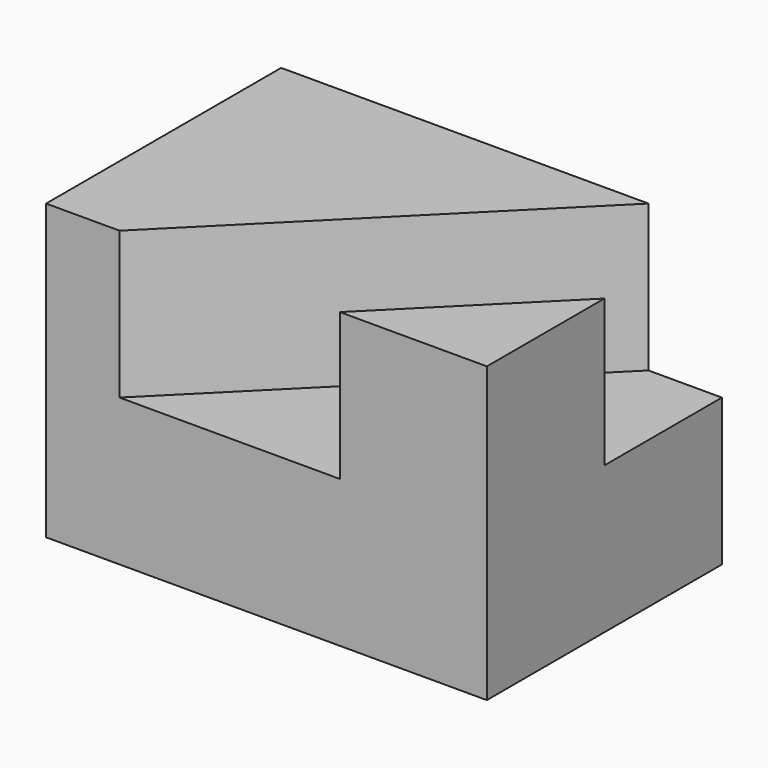
from build123d import *

# Parameters (mm, degrees)
F0_W     = 38.1
F0_H     = 12.7
F1_DEPTH = 25.4
F3_DEPTH = 12.7


with BuildPart() as f1:
    # F0 (on Front) → F1 (new body)
    with BuildSketch(Plane.XZ):
        with Locations((19.05, 6.35)):
            Rectangle(F0_W, F0_H)
    extrude(amount=F1_DEPTH)

    # F2 (on face) → F3 (join)
    with BuildSketch(Plane.XY.offset(12.7)):
        Polygon((6.35, -25.4), (31.75, 0), (0, 0), (0, -25.4), align=None)
        Polygon((38.1, -12.7), (25.4, -25.4), (38.1, -25.4), align=None)
    extrude(amount=F3_DEPTH)


solid = f1.part
